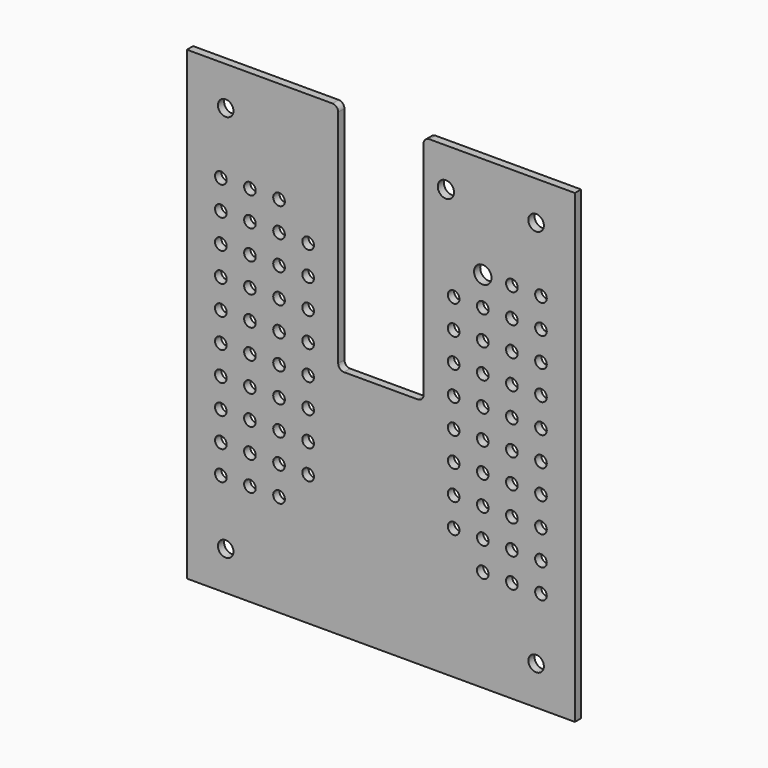
from build123d import *

# Parameters (mm, degrees)
F0_W      = 100
F0_H      = 120
F0_R      = 2
F1_DEPTH  = 2
F2_W      = 22
F2_H      = 60
F3_DEPTH  = 2.001
F4_R      = 1.5
F5_R      = 1.5
F6_DEPTH  = 2.001
F7_R      = 1.5
F8_DEPTH  = 2.001
F9_R      = 2.25
F10_DEPTH = 2.001
F12_DEPTH = 2.001


with BuildPart() as f1:
    # F0 (on Front) → F1 (new body)
    with BuildSketch(Plane.XZ):
        Rectangle(F0_W, F0_H)
        with Locations((-40, -50)):
            Circle(F0_R, mode=Mode.SUBTRACT)
        with Locations((40, -50)):
            Circle(F0_R, mode=Mode.SUBTRACT)
        with Locations((-40, 50)):
            Circle(F0_R, mode=Mode.SUBTRACT)
        with Locations((40, 50)):
            Circle(F0_R, mode=Mode.SUBTRACT)
    extrude(amount=F1_DEPTH)

    # F2 (on face) → F3 (cut, through all)
    with BuildSketch(Plane.XZ.offset(2)):
        with Locations((0, 30)):
            Rectangle(F2_W, F2_H)
    extrude(amount=-F3_DEPTH, mode=Mode.SUBTRACT)

    # F4
    f4_edges = [f1.edges().sort_by_distance(p)[0] for p in [
        (-11, -1, 0),
        (11, -1, 0),
        (-11, -1, 60),
        (11, -1, 60),
    ]]
    fillet(f4_edges, radius=F4_R)

    # F5 (on face) → F6 (cut, through all)
    with BuildSketch(Plane(origin=(0, 0, 0), x_dir=(-1, 0, 0), z_dir=(0, 1, 0))):
        with Locations((33.75, 33.75)):
            Circle(F5_R)
        with Locations((33.75, 26.25)):
            Circle(F5_R)
        with Locations((33.75, 18.75)):
            Circle(F5_R)
        with Locations((33.75, 11.25)):
            Circle(F5_R)
        with Locations((33.75, 3.75)):
            Circle(F5_R)
        with Locations((33.75, -3.75)):
            Circle(F5_R)
        with Locations((33.75, -11.25)):
            Circle(F5_R)
        with Locations((33.75, -18.75)):
            Circle(F5_R)
        with Locations((33.75, -26.25)):
            Circle(F5_R)
        with Locations((33.75, -33.75)):
            Circle(F5_R)
        with Locations((26.25, 33.75)):
            Circle(F5_R)
        with Locations((26.25, 26.25)):
            Circle(F5_R)
        with Locations((26.25, 18.75)):
            Circle(F5_R)
        with Locations((26.25, 11.25)):
            Circle(F5_R)
        with Locations((26.25, 3.75)):
            Circle(F5_R)
        with Locations((26.25, -3.75)):
            Circle(F5_R)
        with Locations((26.25, -11.25)):
            Circle(F5_R)
        with Locations((26.25, -18.75)):
            Circle(F5_R)
        with Locations((26.25, -26.25)):
            Circle(F5_R)
        with Locations((26.25, -33.75)):
            Circle(F5_R)
        with Locations((18.75, 26.25)):
            Circle(F5_R)
        with Locations((18.75, 18.75)):
            Circle(F5_R)
        with Locations((18.75, 11.25)):
            Circle(F5_R)
        with Locations((18.75, 3.75)):
            Circle(F5_R)
        with Locations((18.75, -3.75)):
            Circle(F5_R)
        with Locations((18.75, -11.25)):
            Circle(F5_R)
        with Locations((18.75, -18.75)):
            Circle(F5_R)
        with Locations((18.75, -26.25)):
            Circle(F5_R)
        with Locations((-26.25, 18.75)):
            Circle(F5_R)
        with Locations((-26.25, 3.75)):
            Circle(F5_R)
        with Locations((-18.75, -18.75)):
            Circle(F5_R)
        with Locations((-33.75, -26.25)):
            Circle(F5_R)
        with Locations((-33.75, 18.75)):
            Circle(F5_R)
        with Locations((-26.25, 26.25)):
            Circle(F5_R)
        with Locations((-26.25, 33.75)):
            Circle(F5_R)
        with Locations((-33.75, 33.75)):
            Circle(F5_R)
        with Locations((-18.75, 3.75)):
            Circle(F5_R)
        with Locations((-33.75, 3.75)):
            Circle(F5_R)
        with Locations((-26.25, -3.75)):
            Circle(F5_R)
        with Locations((-33.75, -33.75)):
            Circle(F5_R)
        with Locations((-26.25, -26.25)):
            Circle(F5_R)
        with Locations((-33.75, -11.25)):
            Circle(F5_R)
        with Locations((-26.25, -11.25)):
            Circle(F5_R)
        with Locations((-33.75, -3.75)):
            Circle(F5_R)
        with Locations((-33.75, 26.25)):
            Circle(F5_R)
        with Locations((-18.75, 11.25)):
            Circle(F5_R)
        with Locations((-18.75, 18.75)):
            Circle(F5_R)
        with Locations((-18.75, -11.25)):
            Circle(F5_R)
        with Locations((-18.75, 26.25)):
            Circle(F5_R)
        with Locations((-26.25, -18.75)):
            Circle(F5_R)
        with Locations((-33.75, -18.75)):
            Circle(F5_R)
        with Locations((-26.25, 11.25)):
            Circle(F5_R)
        with Locations((-18.75, -26.25)):
            Circle(F5_R)
        with Locations((-33.75, 11.25)):
            Circle(F5_R)
        with Locations((-18.75, -3.75)):
            Circle(F5_R)
        with Locations((-26.25, -33.75)):
            Circle(F5_R)
    extrude(amount=-F6_DEPTH, mode=Mode.SUBTRACT)

    # F7 (on face) → F8 (cut, through all)
    with BuildSketch(Plane.XZ.offset(2)):
        with Locations((-41.25, 33.75)):
            Circle(F7_R)
        with Locations((-41.25, 26.25)):
            Circle(F7_R)
        with Locations((-41.25, 18.75)):
            Circle(F7_R)
        with Locations((-41.25, 11.25)):
            Circle(F7_R)
        with Locations((-41.25, 3.75)):
            Circle(F7_R)
        with Locations((-41.25, -3.75)):
            Circle(F7_R)
        with Locations((-41.25, -11.25)):
            Circle(F7_R)
        with Locations((-41.25, -18.75)):
            Circle(F7_R)
        with Locations((-41.25, -26.25)):
            Circle(F7_R)
        with Locations((-41.25, -33.75)):
            Circle(F7_R)
        with Locations((41.25, -26.25)):
            Circle(F7_R)
        with Locations((41.25, -18.75)):
            Circle(F7_R)
        with Locations((41.25, -11.25)):
            Circle(F7_R)
        with Locations((41.25, 18.75)):
            Circle(F7_R)
        with Locations((41.25, -3.75)):
            Circle(F7_R)
        with Locations((41.25, 26.25)):
            Circle(F7_R)
        with Locations((41.25, 33.75)):
            Circle(F7_R)
        with Locations((41.25, 3.75)):
            Circle(F7_R)
        with Locations((41.25, 11.25)):
            Circle(F7_R)
        with Locations((41.25, -33.75)):
            Circle(F7_R)
    extrude(amount=-F8_DEPTH, mode=Mode.SUBTRACT)

    # F9 (on face) → F10 (cut, through all)
    with BuildSketch(Plane(origin=(0, 0, 0), x_dir=(-1, 0, 0), z_dir=(0, 1, 0))):
        with Locations((-26.25, 33.75)):
            Circle(F9_R)
    extrude(amount=-F10_DEPTH, mode=Mode.SUBTRACT)

    # F11 (on face) → F12 (cut, through all)
    with BuildSketch(Plane(origin=(0, 0, 0), x_dir=(-1, 0, 0), z_dir=(0, 1, 0))):
        with BuildLine():
            ThreePointArc((-18.85, 50), (-16.75, 47.9), (-14.65, 50))
            ThreePointArc((-14.65, 50), (-16.75, 52.1), (-18.85, 50))
        make_face()
    extrude(amount=-F12_DEPTH, mode=Mode.SUBTRACT)


solid = f1.part
